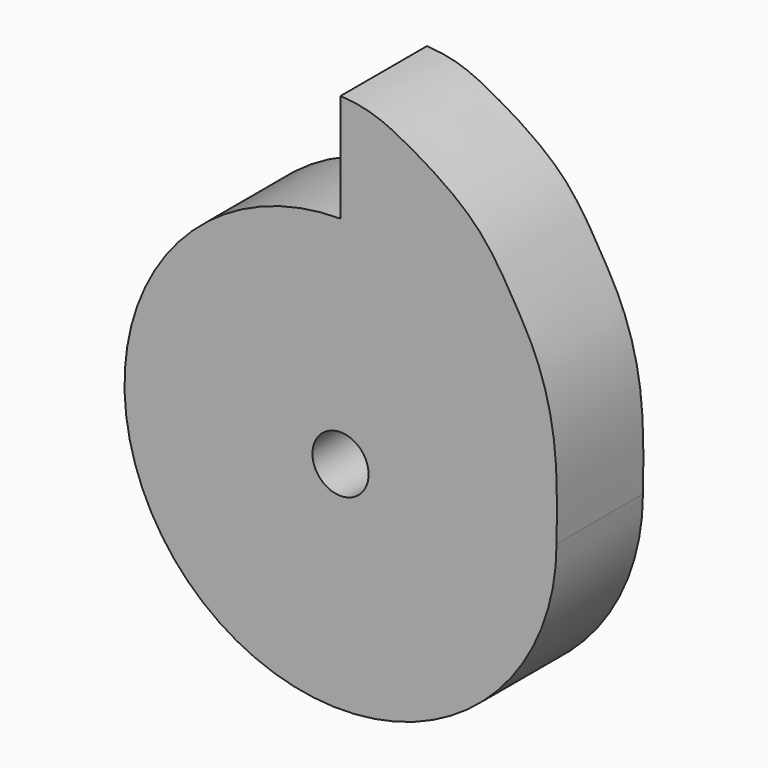
from build123d import *

# Parameters (mm, degrees)
F1_DEPTH = 12.7
F2_DEPTH = 12.7
F3_R     = 3.302
F4_DEPTH = 41.148


with BuildPart() as f1:
    # F0 (on Front) → F1 (new body)
    with BuildSketch(Plane.XZ):
        with BuildLine():
            ThreePointArc((0, 25.4), (-17.9605122421, -17.9605122421), (25.4, 0))
            ThreePointArc((25.4, 0), (17.9605122421, 17.9605122421), (0, 25.4))
        make_face()
    extrude(amount=F1_DEPTH)

    # F0 (on Front) → F2 (join)
    with BuildSketch(Plane.XZ):
        with BuildLine():
            ThreePointArc((0, 25.4), (-17.9605122421, -17.9605122421), (25.4, 0))
            ThreePointArc((25.4, 0), (17.9605122421, 17.9605122421), (0, 25.4))
        make_face()
        with BuildLine():
            ThreePointArc((0, 25.4), (17.9605122421, 17.9605122421), (25.4, 0))
            add(Edge.make_bspline(
                [(0, 38.1), (3.311857111, 37.9321821298), (7.478521166, 36.0197451091), (16.1118794602, 30.7079338501), (20.2292628288, 23.8370974126), (23.5047968087, 18.1542039797), (25.5735181803, 10.1314153802), (25.4731588994, 3.6121298538), (25.4, 0)],
                knots=[0, 0, 0, 0, 0.1635145653, 0.3427853453, 0.5051166288, 0.6515186212, 0.8148600106, 1, 1, 1, 1], degree=3))
            Line((0, 38.1), (0, 25.4))
        make_face()
    extrude(amount=F2_DEPTH)

    # F3 (on face) → F4 (cut)
    with BuildSketch(Plane.XZ.offset(12.7)):
        Circle(F3_R)
    extrude(amount=-F4_DEPTH, mode=Mode.SUBTRACT)


solid = f1.part
